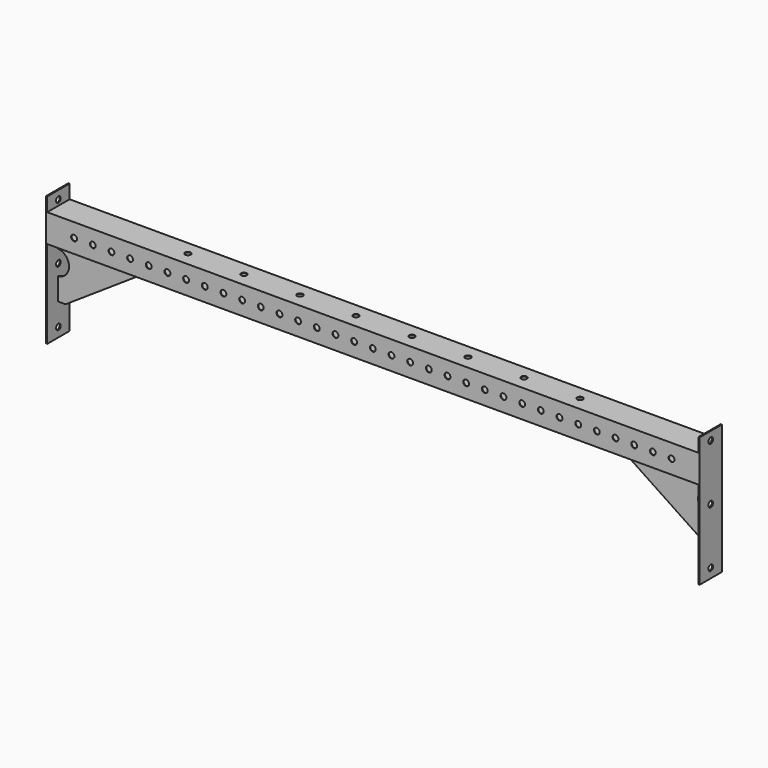
from build123d import *

# Parameters (mm, degrees)
F0_W       = 76.2
F0_H       = 76.2
F0_W_2     = 73.152
F0_H_2     = 73.152
F1_DEPTH   = 1778
F6_D       = 15.875
F6_ON_F5_D = 15.875
F8_DEPTH   = 1.524
F9_DEPTH   = 1.524
F10_W      = 76.2
F10_H      = 353.2152473927
F10_R      = 7.9375
F11_DEPTH  = 3.048


with BuildPart() as f1:
    # F0 (on Right) → F1 (new body)
    with BuildSketch(Plane.YZ):
        Rectangle(F0_W, F0_H)
        Rectangle(F0_W_2, F0_H_2, mode=Mode.SUBTRACT)
    extrude(amount=F1_DEPTH)

    # F6 (through all)
    with Locations(Plane.XZ.offset(76.2)):
        with Locations((76.2, 0), (127, 0), (177.8, 0), (228.6, 0), (279.4, 0), (330.2, 0), (381, 0), (431.8, 0), (482.6, 0), (533.4, 0), (584.2, 0), (635, 0), (685.8, 0), (736.6, 0), (787.4, 0), (838.2, 0), (889, 0), (939.8, 0), (990.6, 0), (1041.4, 0), (1092.2, 0), (1143, 0), (1193.8, 0), (1244.6, 0), (1295.4, 0), (1346.2, 0), (1397, 0), (1447.8, 0), (1498.6, 0), (1549.4, 0), (1600.2, 0), (1651, 0), (1701.8, 0)):
            Hole(F6_D / 2)

    # F6 on F5 (through all)
    with Locations(Plane.XY.offset(76.2)):
        with Locations((1422.4, 0), (1270, 0), (1117.6, 0), (965.2, 0), (812.8, 0), (660.4, 0), (508, 0), (355.6, 0)):
            Hole(F6_ON_F5_D / 2)

    # F7 (on Front) → F8 (join)
    with BuildSketch(Plane.XZ):
        with BuildLine():
            Line((228.6, -38.1), (0, -38.1))
            Line((0, -38.1), (0, -63.9625564218))
            ThreePointArc((0, -63.9625564218), (33.2066453993, -97.1692018211), (0, -130.3758472204))
            Line((0, -130.3758472204), (0, -190.5))
            Line((0, -190.5), (23.9939857274, -190.5))
            Line((23.9939857274, -190.5), (228.6, -54.1826970875))
            Line((228.6, -54.1826970875), (228.6, -38.1))
        make_face()
    extrude(amount=F8_DEPTH)

    # F7 (on Front) → F9 (join)
    with BuildSketch(Plane.XZ):
        with BuildLine():
            Line((228.6, -38.1), (0, -38.1))
            Line((0, -38.1), (0, -63.9625564218))
            ThreePointArc((0, -63.9625564218), (33.2066453993, -97.1692018211), (0, -130.3758472204))
            Line((0, -130.3758472204), (0, -190.5))
            Line((0, -190.5), (23.9939857274, -190.5))
            Line((23.9939857274, -190.5), (228.6, -54.1826970875))
            Line((228.6, -54.1826970875), (228.6, -38.1))
        make_face()
    extrude(amount=-F9_DEPTH)

    # F10 (on Right) → F11 (join)
    with BuildSketch(Plane.YZ):
        with Locations((0, -100.8058041334)):
            Rectangle(F10_W, F10_H)
        with Locations((0, -252.0134278297)):
            Circle(F10_R, mode=Mode.SUBTRACT)
        with Locations((0, -99.6134278297)):
            Circle(F10_R, mode=Mode.SUBTRACT)
        with Locations((0, 52.7865721703)):
            Circle(F10_R, mode=Mode.SUBTRACT)
    extrude(amount=F11_DEPTH)

    # F13: F1 across plane


with BuildPart() as f1_1:
    add(f1.part)
    add(f1.part.mirror(Plane.YZ.offset(889)))


solid = f1_1.part
